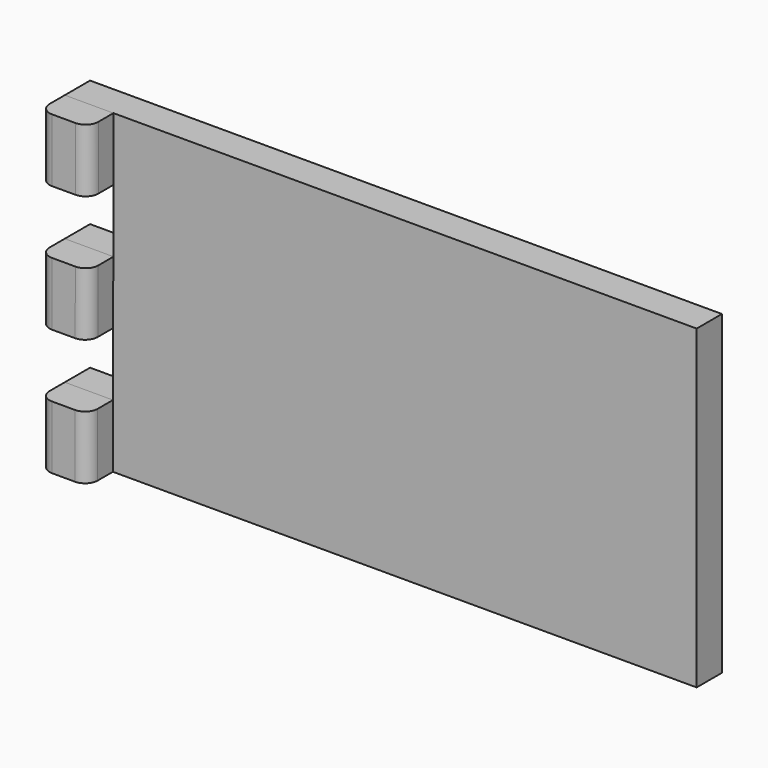
from build123d import *

# Parameters (mm, degrees)
F0_W     = 19.559201
F0_H     = 25.4
F0_W_2   = 19.348304
F1_DEPTH = 25.4
F2_DEPTH = 12.7
F3_R     = 5.08


with BuildPart() as f1:
    # F0 (on Front) → F1 (new body)
    with BuildSketch(Plane.XZ):
        with Locations((-117.220399, 50.8)):
            Rectangle(F0_W, F0_H)
        Polygon((-107.651696, -12.7), (-107.440799, 12.7), (-127, 12.7), (-127, -12.7), align=None)
        with Locations((-117.325848, -50.8)):
            Rectangle(F0_W_2, F0_H)
    extrude(amount=F1_DEPTH)

    # F3
    f3_edges = [f1.edges().sort_by_distance(p)[0] for p in [
        (-107.440799, -25.4, 50.8),
        (-107.546248, -25.4, 0),
        (-107.651696, -25.4, -50.8),
        (-127, -25.4, -50.8),
        (-127, -25.4, 0),
        (-127, -25.4, 50.8),
    ]]
    fillet(f3_edges, radius=F3_R)


with BuildPart() as f2:
    # F0 (on Front) → F2 (new body)
    with BuildSketch(Plane.XZ):
        with Locations((-117.220399, 50.8)):
            Rectangle(F0_W, F0_H)
        Polygon((127, 63.5), (-107.440799, 63.5), (-107.440799, 38.1), (-107.440799, 12.7), (-107.651696, -12.7), (-107.651696, -38.1), (-107.651696, -63.5), (127, -63.5), align=None)
        Polygon((-107.651696, -12.7), (-107.440799, 12.7), (-127, 12.7), (-127, -12.7), align=None)
        with Locations((-117.325848, -50.8)):
            Rectangle(F0_W_2, F0_H)
    extrude(amount=F2_DEPTH)


solid = Compound([f1.part, f2.part])
